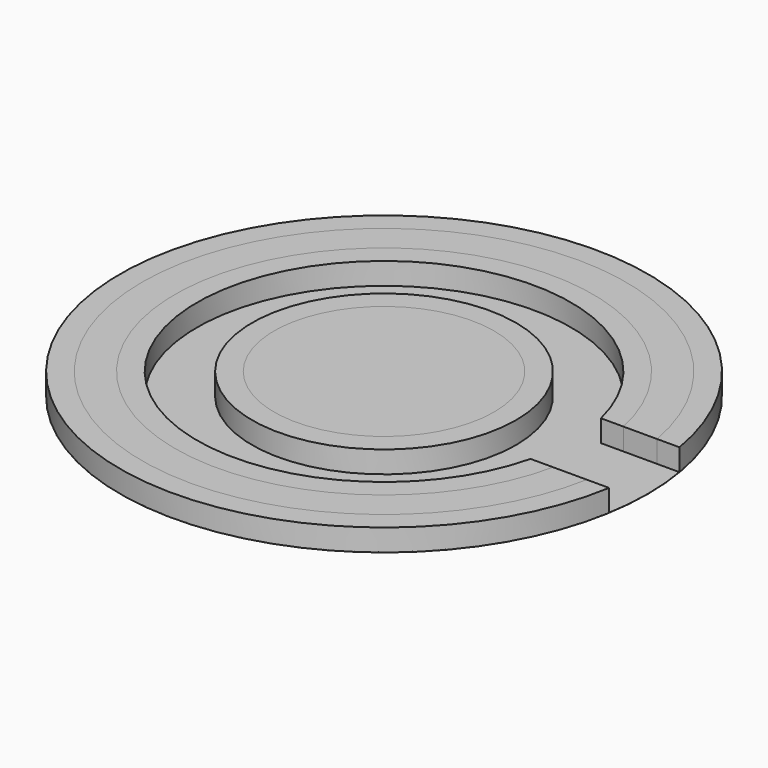
from build123d import *

# Parameters (mm, degrees)
F1_DEPTH = 6.35
F0_R     = 31.75
F2_R     = 38.1
F2_R_2   = 31.75
F3_DEPTH = 6.35
F4_R     = 76.2
F5_DEPTH = 0.0254


with BuildPart() as f1:
    # F0 (on Top) → F1 (new body)
    with BuildSketch(Plane.XY):
        with BuildLine():
            Line((58.9730075967, 12.7), (68.6857517976, 12.7))
            ThreePointArc((68.6857517976, 12.7), (-69.85, 0), (68.6857517976, -12.7))
            Line((68.6857517976, -12.7), (58.9730075967, -12.7))
            ThreePointArc((58.9730075967, -12.7), (-60.325, 0), (58.9730075967, 12.7))
        make_face()
    extrude(amount=F1_DEPTH)


with BuildPart() as f1b:
    # F0 (on Top) → F1, piece 2 (new body)
    with BuildSketch(Plane.XY):
        Circle(F0_R)
    extrude(amount=F1_DEPTH)


with BuildPart() as f3:
    # F2 (on Top) → F3 (new body)
    with BuildSketch(Plane.XY):
        Circle(F2_R)
        Circle(F2_R_2, mode=Mode.SUBTRACT)
    extrude(amount=F3_DEPTH)


with BuildPart() as f3b:
    # F2 (on Top) → F3, piece 2 (new body)
    with BuildSketch(Plane.XY):
        with BuildLine():
            Line((52.4596094629, 12.7), (58.9730075967, 12.7))
            ThreePointArc((58.9730075967, 12.7), (-60.325, 0), (58.9730075967, -12.7))
            Line((58.9730075967, -12.7), (52.4596094629, -12.7))
            ThreePointArc((52.4596094629, -12.7), (-53.975, 0), (52.4596094629, 12.7))
        make_face()
    extrude(amount=F3_DEPTH)


with BuildPart() as f3c:
    # F2 (on Top) → F3, piece 3 (new body)
    with BuildSketch(Plane.XY):
        with BuildLine():
            Line((68.6857517976, 12.7), (75.1342132454, 12.7))
            ThreePointArc((75.1342132454, 12.7), (-76.2, 0), (75.1342132454, -12.7))
            Line((75.1342132454, -12.7), (68.6857517976, -12.7))
            ThreePointArc((68.6857517976, -12.7), (-69.85, 0), (68.6857517976, 12.7))
        make_face()
    extrude(amount=F3_DEPTH)


with BuildPart() as f5:
    # F4 (on Top) → F5 (new body)
    with BuildSketch(Plane.XY):
        Circle(F4_R)
    extrude(amount=F5_DEPTH)


solid = Compound([f1.part, f1b.part, f3.part, f3b.part, f3c.part, f5.part])
